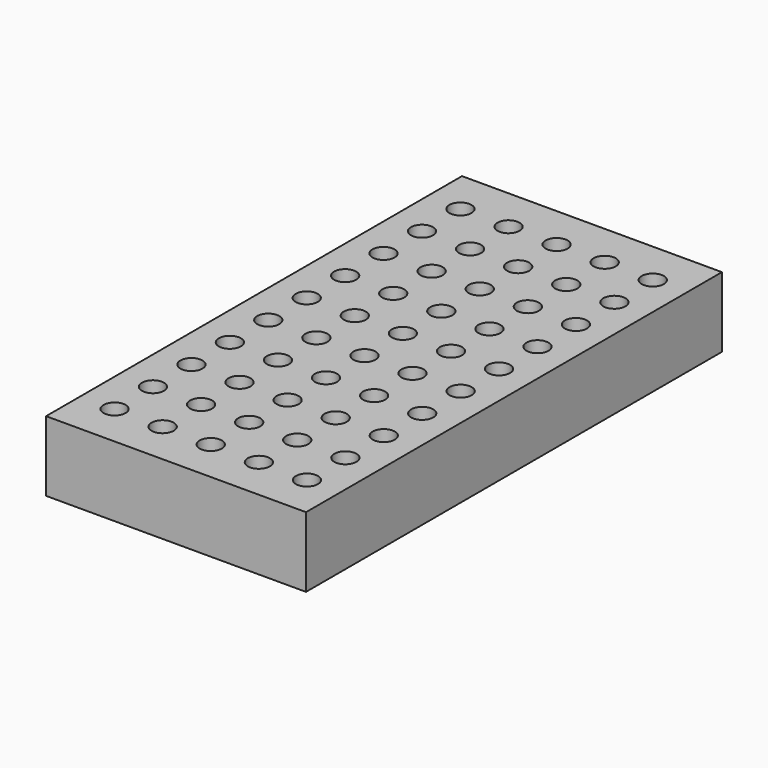
from build123d import *

# Parameters (mm, degrees)
F0_W     = 100
F0_H     = 200
F0_R     = 4.25
F1_DEPTH = 27


with BuildPart() as f1:
    # F0 (on Top) → F1 (new body)
    with BuildSketch(Plane.XY):
        with Locations((-452.313822, 147.181731)):
            Rectangle(F0_W, F0_H)
        with Locations((-489.163222, 63.681799)):
            Circle(F0_R, mode=Mode.SUBTRACT)
        with Locations((-489.179955, 82.181791)):
            Circle(F0_R, mode=Mode.SUBTRACT)
        with Locations((-470.663222, 63.681799)):
            Circle(F0_R, mode=Mode.SUBTRACT)
        with Locations((-470.679955, 82.181791)):
            Circle(F0_R, mode=Mode.SUBTRACT)
        with Locations((-489.196689, 100.681784)):
            Circle(F0_R, mode=Mode.SUBTRACT)
        with Locations((-489.213422, 119.181776)):
            Circle(F0_R, mode=Mode.SUBTRACT)
        with Locations((-489.230155, 137.681768)):
            Circle(F0_R, mode=Mode.SUBTRACT)
        with Locations((-470.696689, 100.681784)):
            Circle(F0_R, mode=Mode.SUBTRACT)
        with Locations((-470.713422, 119.181776)):
            Circle(F0_R, mode=Mode.SUBTRACT)
        with Locations((-470.730155, 137.681768)):
            Circle(F0_R, mode=Mode.SUBTRACT)
        with Locations((-452.163222, 63.681799)):
            Circle(F0_R, mode=Mode.SUBTRACT)
        with Locations((-433.663222, 63.681799)):
            Circle(F0_R, mode=Mode.SUBTRACT)
        with Locations((-452.179955, 82.181791)):
            Circle(F0_R, mode=Mode.SUBTRACT)
        with Locations((-433.679955, 82.181791)):
            Circle(F0_R, mode=Mode.SUBTRACT)
        with Locations((-415.163222, 63.681799)):
            Circle(F0_R, mode=Mode.SUBTRACT)
        with Locations((-415.179955, 82.181791)):
            Circle(F0_R, mode=Mode.SUBTRACT)
        with Locations((-452.196689, 100.681784)):
            Circle(F0_R, mode=Mode.SUBTRACT)
        with Locations((-452.213422, 119.181776)):
            Circle(F0_R, mode=Mode.SUBTRACT)
        with Locations((-433.696689, 100.681784)):
            Circle(F0_R, mode=Mode.SUBTRACT)
        with Locations((-433.713422, 119.181776)):
            Circle(F0_R, mode=Mode.SUBTRACT)
        with Locations((-452.230155, 137.681768)):
            Circle(F0_R, mode=Mode.SUBTRACT)
        with Locations((-433.730155, 137.681768)):
            Circle(F0_R, mode=Mode.SUBTRACT)
        with Locations((-415.196689, 100.681784)):
            Circle(F0_R, mode=Mode.SUBTRACT)
        with Locations((-415.213422, 119.181776)):
            Circle(F0_R, mode=Mode.SUBTRACT)
        with Locations((-415.230155, 137.681768)):
            Circle(F0_R, mode=Mode.SUBTRACT)
        with Locations((-489.246889, 156.181761)):
            Circle(F0_R, mode=Mode.SUBTRACT)
        with Locations((-489.263622, 174.681753)):
            Circle(F0_R, mode=Mode.SUBTRACT)
        with Locations((-489.280356, 193.181746)):
            Circle(F0_R, mode=Mode.SUBTRACT)
        with Locations((-470.746889, 156.181761)):
            Circle(F0_R, mode=Mode.SUBTRACT)
        with Locations((-470.763622, 174.681753)):
            Circle(F0_R, mode=Mode.SUBTRACT)
        with Locations((-470.780356, 193.181746)):
            Circle(F0_R, mode=Mode.SUBTRACT)
        with Locations((-489.297089, 211.681738)):
            Circle(F0_R, mode=Mode.SUBTRACT)
        with Locations((-489.313822, 230.181731)):
            Circle(F0_R, mode=Mode.SUBTRACT)
        with Locations((-470.797089, 211.681738)):
            Circle(F0_R, mode=Mode.SUBTRACT)
        with Locations((-470.813822, 230.181731)):
            Circle(F0_R, mode=Mode.SUBTRACT)
        with Locations((-452.313822, 230.181731)):
            Circle(F0_R, mode=Mode.SUBTRACT)
        with Locations((-452.246889, 156.181761)):
            Circle(F0_R, mode=Mode.SUBTRACT)
        with Locations((-433.746889, 156.181761)):
            Circle(F0_R, mode=Mode.SUBTRACT)
        with Locations((-452.263622, 174.681753)):
            Circle(F0_R, mode=Mode.SUBTRACT)
        with Locations((-452.280356, 193.181746)):
            Circle(F0_R, mode=Mode.SUBTRACT)
        with Locations((-433.763622, 174.681753)):
            Circle(F0_R, mode=Mode.SUBTRACT)
        with Locations((-433.780356, 193.181746)):
            Circle(F0_R, mode=Mode.SUBTRACT)
        with Locations((-415.246889, 156.181761)):
            Circle(F0_R, mode=Mode.SUBTRACT)
        with Locations((-415.263622, 174.681753)):
            Circle(F0_R, mode=Mode.SUBTRACT)
        with Locations((-415.280356, 193.181746)):
            Circle(F0_R, mode=Mode.SUBTRACT)
        with Locations((-452.297089, 211.681738)):
            Circle(F0_R, mode=Mode.SUBTRACT)
        with Locations((-433.797089, 211.681738)):
            Circle(F0_R, mode=Mode.SUBTRACT)
        with Locations((-433.813822, 230.181731)):
            Circle(F0_R, mode=Mode.SUBTRACT)
        with Locations((-415.297089, 211.681738)):
            Circle(F0_R, mode=Mode.SUBTRACT)
        with Locations((-415.313822, 230.181731)):
            Circle(F0_R, mode=Mode.SUBTRACT)
    extrude(amount=F1_DEPTH)


solid = f1.part
